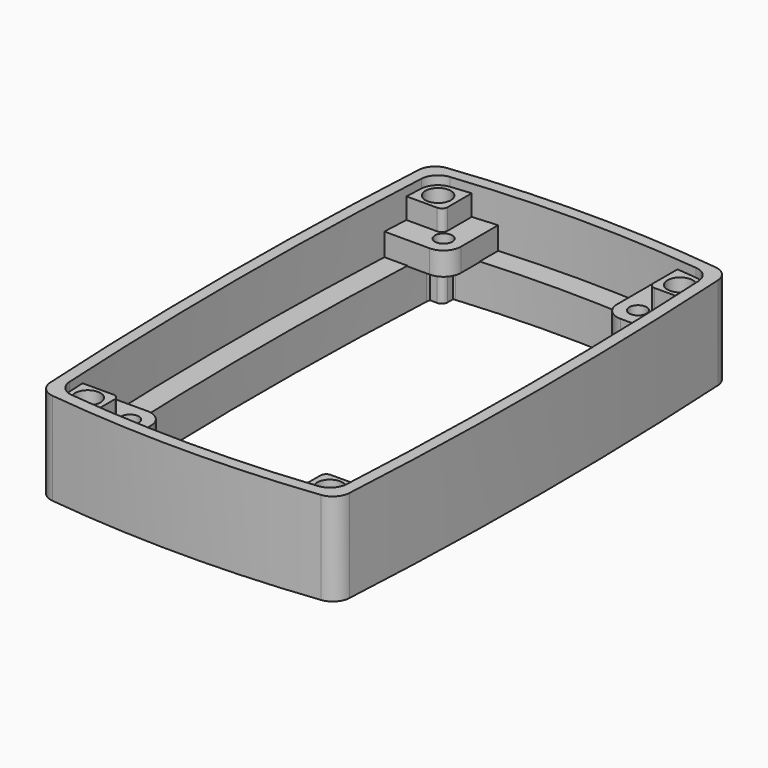
from build123d import *

# Parameters (mm, degrees)
CYLINDER034_R               = 2.2
CYLINDER034_DEPTH           = 39
CYLINDER033_R               = 3.25
CYLINDER033_DEPTH           = 20
CYLINDER036_R               = 2.2
CYLINDER036_DEPTH           = 39
CYLINDER035_R               = 3.25
CYLINDER035_DEPTH           = 20
CYLINDER032_R               = 2.2
CYLINDER032_DEPTH           = 39
CYLINDER031_R               = 3.25
CYLINDER031_DEPTH           = 20
CYLINDER038_R               = 2.2
CYLINDER038_DEPTH           = 39
CYLINDER037_R               = 3.25
CYLINDER037_DEPTH           = 20
CYLINDER039_R               = 1.5
CYLINDER039_DEPTH           = 10
BOX017_W                    = 11.5
BOX017_H                    = 11.5
BOX017_DEPTH                = 4
FILLET016_R                 = 3
CYLINDER040_R               = 1.5
CYLINDER040_DEPTH           = 10
BOX018_W                    = 11.5
BOX018_H                    = 11.5
BOX018_DEPTH                = 4
FILLET017_R                 = 3
COMPOUND009_PLACEMENT_ANGLE = 180
CYLINDER041_R               = 1.5
CYLINDER041_DEPTH           = 10
BOX019_W                    = 11.5
BOX019_H                    = 11.5
BOX019_DEPTH                = 4
FILLET018_R                 = 3
CYLINDER042_R               = 1.5
CYLINDER042_DEPTH           = 10
BOX020_W                    = 11.5
BOX020_H                    = 11.5
BOX020_DEPTH                = 4
FILLET019_R                 = 3
COMPOUND011_PLACEMENT_ANGLE = 180
BOX015_W                    = 16
BOX015_H                    = 11
BOX015_DEPTH                = 75
FILLET011_R                 = 1
BOX016_W                    = 16
BOX016_H                    = 11
BOX016_DEPTH                = 75
FILLET012_R                 = 1
COMPOUND007_PLACEMENT_ANGLE = 180
BOX013_W                    = 16
BOX013_H                    = 11
BOX013_DEPTH                = 75
FILLET009_R                 = 1
BOX014_W                    = 16
BOX014_H                    = 11
BOX014_DEPTH                = 75
FILLET010_R                 = 1
COMPOUND005_PLACEMENT_ANGLE = 180
CYLINDER027_R               = 700
CYLINDER027_DEPTH           = 36
CYLINDER028_R               = 200
CYLINDER028_DEPTH           = 53
CYLINDER029_R               = 200
CYLINDER029_DEPTH           = 36
CYLINDER030_R               = 700
CYLINDER030_DEPTH           = 36
BOX012_W                    = 60
BOX012_H                    = 99
BOX012_DEPTH                = 94
FILLET014_R                 = 3
CYLINDER023_R               = 700
CYLINDER023_DEPTH           = 36
CYLINDER024_R               = 200
CYLINDER024_DEPTH           = 53
CYLINDER025_R               = 200
CYLINDER025_DEPTH           = 36
CYLINDER026_R               = 700
CYLINDER026_DEPTH           = 36
BOX011_W                    = 60
BOX011_H                    = 99
BOX011_DEPTH                = 16
FILLET013_R                 = 3
CYLINDER018_R               = 700
CYLINDER018_DEPTH           = 36
CYLINDER019_R               = 200
CYLINDER019_DEPTH           = 53
CYLINDER021_R               = 200
CYLINDER021_DEPTH           = 36
CYLINDER022_R               = 700
CYLINDER022_DEPTH           = 36
BOX010_W                    = 60
BOX010_H                    = 99
BOX010_DEPTH                = 16
FILLET020_R                 = 3


with BuildPart() as cylinder034:
    # Cylinder034 → Cylinder034 (new body)
    with BuildSketch(Plane.XY):
        Circle(CYLINDER034_R)
    extrude(amount=CYLINDER034_DEPTH)


with BuildPart() as screw_hole005:
    # Cylinder033 → Cylinder033 (new body)
    with BuildSketch(Plane.XY.offset(17)):
        Circle(CYLINDER033_R)
    extrude(amount=CYLINDER033_DEPTH)

    # Fusion013: union Cylinder034
    add(cylinder034.part)


with BuildPart() as screw_hole005_1:
    # Fusion013 placement: moved
    add(screw_hole005.part.moved(Location((20.93, 37.87, 0))))


with BuildPart() as cylinder036:
    # Cylinder036 → Cylinder036 (new body)
    with BuildSketch(Plane.XY):
        Circle(CYLINDER036_R)
    extrude(amount=CYLINDER036_DEPTH)


with BuildPart() as screw_hole006:
    # Cylinder035 → Cylinder035 (new body)
    with BuildSketch(Plane.XY.offset(17)):
        Circle(CYLINDER035_R)
    extrude(amount=CYLINDER035_DEPTH)

    # Fusion014: union Cylinder036
    add(cylinder036.part)


with BuildPart() as screw_hole006_1:
    # Fusion014 placement: moved
    add(screw_hole006.part.moved(Location((-20.93, -37.87, 0))))


with BuildPart() as cylinder032:
    # Cylinder032 → Cylinder032 (new body)
    with BuildSketch(Plane.XY):
        Circle(CYLINDER032_R)
    extrude(amount=CYLINDER032_DEPTH)


with BuildPart() as screw_hole004:
    # Cylinder031 → Cylinder031 (new body)
    with BuildSketch(Plane.XY.offset(17)):
        Circle(CYLINDER031_R)
    extrude(amount=CYLINDER031_DEPTH)

    # Fusion012: union Cylinder032
    add(cylinder032.part)


with BuildPart() as screw_hole004_1:
    # Fusion012 placement: moved
    add(screw_hole004.part.moved(Location((-20.93, 37.87, 0))))


with BuildPart() as cylinder038:
    # Cylinder038 → Cylinder038 (new body)
    with BuildSketch(Plane.XY):
        Circle(CYLINDER038_R)
    extrude(amount=CYLINDER038_DEPTH)


with BuildPart() as screw_holes001:
    # Cylinder037 → Cylinder037 (new body)
    with BuildSketch(Plane.XY.offset(17)):
        Circle(CYLINDER037_R)
    extrude(amount=CYLINDER037_DEPTH)

    # Fusion015: union Cylinder038
    add(cylinder038.part)


with BuildPart() as screw_holes001_1:
    # Fusion015 placement: moved
    add(screw_holes001.part.moved(Location((20.93, -37.87, 0))))

    # Fusion016: union Screw hole005, Screw hole006, Screw hole004
    add(screw_hole005_1.part)
    add(screw_hole006_1.part)
    add(screw_hole004_1.part)


with BuildPart() as screw_holes001_2:
    # Fusion016 placement: moved
    add(screw_holes001_1.part.moved(Location((0, 0, 5))))


with BuildPart() as cylinder039:
    # Cylinder039 → Cylinder039 (new body)
    with BuildSketch(Plane(origin=(-16.8, -33.9, 7), x_dir=(1, 0, 0), z_dir=(0, 0, 1))):
        Circle(CYLINDER039_R)
    extrude(amount=CYLINDER039_DEPTH)


with BuildPart() as compound008:
    # Box017 → Box017 (new body)
    with BuildSketch(Plane(origin=(-25, -42, 7.9), x_dir=(1, 0, 0), z_dir=(0, 0, 1))):
        with Locations((5.75, 5.75)):
            Rectangle(BOX017_W, BOX017_H)
    extrude(amount=BOX017_DEPTH)

    # Fillet016
    fillet016_edges = [compound008.edges().sort_by_distance(p)[0] for p in [
        (-25, -42, 9.9),
        (-13.5, -30.5, 9.9),
    ]]
    fillet(fillet016_edges, radius=FILLET016_R)

    # Cut008: cut Cylinder039
    add(cylinder039.part, mode=Mode.SUBTRACT)


with BuildPart() as cylinder040:
    # Cylinder040 → Cylinder040 (new body)
    with BuildSketch(Plane(origin=(-16.8, -33.9, 7), x_dir=(1, 0, 0), z_dir=(0, 0, 1))):
        Circle(CYLINDER040_R)
    extrude(amount=CYLINDER040_DEPTH)


with BuildPart() as fusion017:
    # Box018 → Box018 (new body)
    with BuildSketch(Plane(origin=(-25, -42, 7.9), x_dir=(1, 0, 0), z_dir=(0, 0, 1))):
        with Locations((5.75, 5.75)):
            Rectangle(BOX018_W, BOX018_H)
    extrude(amount=BOX018_DEPTH)

    # Fillet017
    fillet017_edges = [fusion017.edges().sort_by_distance(p)[0] for p in [
        (-25, -42, 9.9),
        (-13.5, -30.5, 9.9),
    ]]
    fillet(fillet017_edges, radius=FILLET017_R)

    # Cut009: cut Cylinder040
    add(cylinder040.part, mode=Mode.SUBTRACT)


with BuildPart() as fusion017_1:
    # Compound009 placement: moved
    add(fusion017.part.rotate(Axis((0, 0, 0), (0, 0, 1)), COMPOUND009_PLACEMENT_ANGLE))

    # Fusion017: union Compound008
    add(compound008.part)


with BuildPart() as part_mirroring002:
    # Part__Mirroring002: instance of Fusion017
    add(fusion017_1.part.mirror(Plane(origin=(0, 0, 0), x_dir=(1, 0, 0), z_dir=(0, 1, 0))))


with BuildPart() as cylinder041:
    # Cylinder041 → Cylinder041 (new body)
    with BuildSketch(Plane(origin=(-16.8, -33.9, 7), x_dir=(1, 0, 0), z_dir=(0, 0, 1))):
        Circle(CYLINDER041_R)
    extrude(amount=CYLINDER041_DEPTH)


with BuildPart() as compound010:
    # Box019 → Box019 (new body)
    with BuildSketch(Plane(origin=(-25, -42, 7.9), x_dir=(1, 0, 0), z_dir=(0, 0, 1))):
        with Locations((5.75, 5.75)):
            Rectangle(BOX019_W, BOX019_H)
    extrude(amount=BOX019_DEPTH)

    # Fillet018
    fillet018_edges = [compound010.edges().sort_by_distance(p)[0] for p in [
        (-25, -42, 9.9),
        (-13.5, -30.5, 9.9),
    ]]
    fillet(fillet018_edges, radius=FILLET018_R)

    # Cut010: cut Cylinder041
    add(cylinder041.part, mode=Mode.SUBTRACT)


with BuildPart() as cylinder042:
    # Cylinder042 → Cylinder042 (new body)
    with BuildSketch(Plane(origin=(-16.8, -33.9, 7), x_dir=(1, 0, 0), z_dir=(0, 0, 1))):
        Circle(CYLINDER042_R)
    extrude(amount=CYLINDER042_DEPTH)


with BuildPart() as inner_screwtabs:
    # Box020 → Box020 (new body)
    with BuildSketch(Plane(origin=(-25, -42, 7.9), x_dir=(1, 0, 0), z_dir=(0, 0, 1))):
        with Locations((5.75, 5.75)):
            Rectangle(BOX020_W, BOX020_H)
    extrude(amount=BOX020_DEPTH)

    # Fillet019
    fillet019_edges = [inner_screwtabs.edges().sort_by_distance(p)[0] for p in [
        (-25, -42, 9.9),
        (-13.5, -30.5, 9.9),
    ]]
    fillet(fillet019_edges, radius=FILLET019_R)

    # Cut011: cut Cylinder042
    add(cylinder042.part, mode=Mode.SUBTRACT)


with BuildPart() as inner_screwtabs_1:
    # Compound011 placement: moved
    add(inner_screwtabs.part.rotate(Axis((0, 0, 0), (0, 0, 1)), COMPOUND011_PLACEMENT_ANGLE))

    # Fusion018: union Compound010
    add(compound010.part)

    # Fusion019: union Part__Mirroring002
    add(part_mirroring002.part)


with BuildPart() as compound006:
    # Box015 → Box015 (new body)
    with BuildSketch(Plane(origin=(-17.8, 35, 0), x_dir=(0, 1, 0), z_dir=(0, 0, 1))):
        with Locations((8, 5.5)):
            Rectangle(BOX015_W, BOX015_H)
    extrude(amount=BOX015_DEPTH)

    # Fillet011
    fillet011_edges = [compound006.edges().sort_by_distance(p)[0] for p in [
        (-17.8, 35, 37.5),
    ]]
    fillet(fillet011_edges, radius=FILLET011_R)


with BuildPart() as fusion009:
    # Box016 → Box016 (new body)
    with BuildSketch(Plane(origin=(-17.8, 35, 0), x_dir=(0, 1, 0), z_dir=(0, 0, 1))):
        with Locations((8, 5.5)):
            Rectangle(BOX016_W, BOX016_H)
    extrude(amount=BOX016_DEPTH)

    # Fillet012
    fillet012_edges = [fusion009.edges().sort_by_distance(p)[0] for p in [
        (-17.8, 35, 37.5),
    ]]
    fillet(fillet012_edges, radius=FILLET012_R)


with BuildPart() as fusion009_1:
    # Compound007 placement: moved
    add(fusion009.part.rotate(Axis((0, 0, 0), (0, 0, 1)), COMPOUND007_PLACEMENT_ANGLE))

    # Fusion009: union Compound006
    add(compound006.part)


with BuildPart() as part_mirroring001:
    # Part__Mirroring001: instance of Fusion009
    add(fusion009_1.part.mirror(Plane(origin=(0, 0, 0), x_dir=(1, 0, 0), z_dir=(0, 1, 0))))


with BuildPart() as compound004:
    # Box013 → Box013 (new body)
    with BuildSketch(Plane(origin=(-17.8, 35, 0), x_dir=(0, 1, 0), z_dir=(0, 0, 1))):
        with Locations((8, 5.5)):
            Rectangle(BOX013_W, BOX013_H)
    extrude(amount=BOX013_DEPTH)

    # Fillet009
    fillet009_edges = [compound004.edges().sort_by_distance(p)[0] for p in [
        (-17.8, 35, 37.5),
    ]]
    fillet(fillet009_edges, radius=FILLET009_R)


with BuildPart() as fusion011:
    # Box014 → Box014 (new body)
    with BuildSketch(Plane(origin=(-17.8, 35, 0), x_dir=(0, 1, 0), z_dir=(0, 0, 1))):
        with Locations((8, 5.5)):
            Rectangle(BOX014_W, BOX014_H)
    extrude(amount=BOX014_DEPTH)

    # Fillet010
    fillet010_edges = [fusion011.edges().sort_by_distance(p)[0] for p in [
        (-17.8, 35, 37.5),
    ]]
    fillet(fillet010_edges, radius=FILLET010_R)


with BuildPart() as fusion011_1:
    # Compound005 placement: moved
    add(fusion011.part.rotate(Axis((0, 0, 0), (0, 0, 1)), COMPOUND005_PLACEMENT_ANGLE))

    # Fusion008: union Compound004
    add(compound004.part)

    # Fusion011: union Part__Mirroring001
    add(part_mirroring001.part)


with BuildPart() as fusion011_2:
    # Fusion011 placement: moved
    add(fusion011_1.part.moved(Location((0, 0, -59.5))))


with BuildPart() as long_side_circle008:
    # Cylinder027 → Cylinder027 (new body)
    with BuildSketch(Plane(origin=(679, 0, 0), x_dir=(1, 0, 0), z_dir=(0, 0, 1))):
        Circle(CYLINDER027_R)
    extrude(amount=CYLINDER027_DEPTH)


with BuildPart() as short_side_circle011:
    # Cylinder028 → Cylinder028 (new body)
    with BuildSketch(Plane(origin=(0, 162, 0), x_dir=(1, 0, 0), z_dir=(0, 0, 1))):
        Circle(CYLINDER028_R)
    extrude(amount=CYLINDER028_DEPTH)


with BuildPart() as short_side_circle012:
    # Cylinder029 → Cylinder029 (new body)
    with BuildSketch(Plane(origin=(0, -162, 0), x_dir=(1, 0, 0), z_dir=(0, 0, 1))):
        Circle(CYLINDER029_R)
    extrude(amount=CYLINDER029_DEPTH)


with BuildPart() as long_side_circle009:
    # Cylinder030 → Cylinder030 (new body)
    with BuildSketch(Plane(origin=(-679, 0, 0), x_dir=(1, 0, 0), z_dir=(0, 0, 1))):
        Circle(CYLINDER030_R)
    extrude(amount=CYLINDER030_DEPTH)


with BuildPart() as fillet014:
    # Box012 → Box012 (new body)
    with BuildSketch(Plane(origin=(-29.77, -50.31, -4), x_dir=(1, 0, 0), z_dir=(0, 0, 1))):
        with Locations((30, 49.5)):
            Rectangle(BOX012_W, BOX012_H)
    extrude(amount=BOX012_DEPTH)

    # Common012: intersect Long Side circle008, Short side circle011, Short side circle012, Long Side circle009
    add(long_side_circle008.part, mode=Mode.INTERSECT)
    add(short_side_circle011.part, mode=Mode.INTERSECT)
    add(short_side_circle012.part, mode=Mode.INTERSECT)
    add(long_side_circle009.part, mode=Mode.INTERSECT)


with BuildPart() as fillet014_1:
    # Common012 placement: moved
    add(fillet014.part.moved(Location((0, 0, -13))))

    # Fillet014
    fillet014_edges = [fillet014_1.edges().sort_by_distance(p)[0] for p in [
        (20.021707, 36.995305, 5),
        (20.021707, -36.995305, 5),
        (-20.021707, -36.995305, 5),
        (-20.021707, 36.995305, 5),
    ]]
    fillet(fillet014_edges, radius=FILLET014_R)


with BuildPart() as long_side_circle006:
    # Cylinder023 → Cylinder023 (new body)
    with BuildSketch(Plane(origin=(675, 0, 0), x_dir=(1, 0, 0), z_dir=(0, 0, 1))):
        Circle(CYLINDER023_R)
    extrude(amount=CYLINDER023_DEPTH)


with BuildPart() as short_side_circle009:
    # Cylinder024 → Cylinder024 (new body)
    with BuildSketch(Plane(origin=(0, 158, 0), x_dir=(1, 0, 0), z_dir=(0, 0, 1))):
        Circle(CYLINDER024_R)
    extrude(amount=CYLINDER024_DEPTH)


with BuildPart() as short_side_circle010:
    # Cylinder025 → Cylinder025 (new body)
    with BuildSketch(Plane(origin=(0, -158, 0), x_dir=(1, 0, 0), z_dir=(0, 0, 1))):
        Circle(CYLINDER025_R)
    extrude(amount=CYLINDER025_DEPTH)


with BuildPart() as long_side_circle007:
    # Cylinder026 → Cylinder026 (new body)
    with BuildSketch(Plane(origin=(-675, 0, 0), x_dir=(1, 0, 0), z_dir=(0, 0, 1))):
        Circle(CYLINDER026_R)
    extrude(amount=CYLINDER026_DEPTH)


with BuildPart() as cut005:
    # Box011 → Box011 (new body)
    with BuildSketch(Plane(origin=(-29.77, -50.31, 11), x_dir=(1, 0, 0), z_dir=(0, 0, 1))):
        with Locations((30, 49.5)):
            Rectangle(BOX011_W, BOX011_H)
    extrude(amount=BOX011_DEPTH)

    # Common011: intersect Long Side circle006, Short side circle009, Short side circle010, Long Side circle007
    add(long_side_circle006.part, mode=Mode.INTERSECT)
    add(short_side_circle009.part, mode=Mode.INTERSECT)
    add(short_side_circle010.part, mode=Mode.INTERSECT)
    add(long_side_circle007.part, mode=Mode.INTERSECT)


with BuildPart() as cut005_1:
    # Common011 placement: moved
    add(cut005.part.moved(Location((0, 0, -3))))

    # Fillet013
    fillet013_edges = [cut005_1.edges().sort_by_distance(p)[0] for p in [
        (23.822997, 40.576093, 16),
        (-23.822997, 40.576093, 16),
        (23.822997, -40.576093, 16),
        (-23.822997, -40.576093, 16),
    ]]
    fillet(fillet013_edges, radius=FILLET013_R)

    # Fusion010: union Fillet014
    add(fillet014_1.part)

    # Cut005: cut Fusion011
    add(fusion011_2.part, mode=Mode.SUBTRACT)


with BuildPart() as long_side_circle004:
    # Cylinder018 → Cylinder018 (new body)
    with BuildSketch(Plane(origin=(673, 0, 0), x_dir=(1, 0, 0), z_dir=(0, 0, 1))):
        Circle(CYLINDER018_R)
    extrude(amount=CYLINDER018_DEPTH)


with BuildPart() as short_side_circle006:
    # Cylinder019 → Cylinder019 (new body)
    with BuildSketch(Plane(origin=(0, 156, 0), x_dir=(1, 0, 0), z_dir=(0, 0, 1))):
        Circle(CYLINDER019_R)
    extrude(amount=CYLINDER019_DEPTH)


with BuildPart() as short_side_circle008:
    # Cylinder021 → Cylinder021 (new body)
    with BuildSketch(Plane(origin=(0, -156, 0), x_dir=(1, 0, 0), z_dir=(0, 0, 1))):
        Circle(CYLINDER021_R)
    extrude(amount=CYLINDER021_DEPTH)


with BuildPart() as long_side_circle005:
    # Cylinder022 → Cylinder022 (new body)
    with BuildSketch(Plane(origin=(-673, 0, 0), x_dir=(1, 0, 0), z_dir=(0, 0, 1))):
        Circle(CYLINDER022_R)
    extrude(amount=CYLINDER022_DEPTH)


with BuildPart() as fillet020:
    # Box010 → Box010 (new body)
    with BuildSketch(Plane(origin=(-29.77, -50.31, 14), x_dir=(1, 0, 0), z_dir=(0, 0, 1))):
        with Locations((30, 49.5)):
            Rectangle(BOX010_W, BOX010_H)
    extrude(amount=BOX010_DEPTH)

    # Common010: intersect Long Side circle004, Short side circle006, Short side circle008, Long Side circle005
    add(long_side_circle004.part, mode=Mode.INTERSECT)
    add(short_side_circle006.part, mode=Mode.INTERSECT)
    add(short_side_circle008.part, mode=Mode.INTERSECT)
    add(long_side_circle005.part, mode=Mode.INTERSECT)


with BuildPart() as fillet020_1:
    # Common010 placement: moved
    add(fillet020.part.moved(Location((0, 0, -13))))

    # Cut006: cut Cut005
    add(cut005_1.part, mode=Mode.SUBTRACT)

    # Fusion020: union inner screwtabs
    add(inner_screwtabs_1.part)

    # Cut012: cut Screw holes001
    add(screw_holes001_2.part, mode=Mode.SUBTRACT)

    # Fillet020
    fillet020_edges = [fillet020_1.edges().sort_by_distance(p)[0] for p in [
        (25.718373, 42.33952, 9),
        (-25.718373, 42.33952, 9),
        (-25.718373, -42.33952, 9),
        (25.718373, -42.33952, 9),
    ]]
    fillet(fillet020_edges, radius=FILLET020_R)


solid = fillet020_1.part
